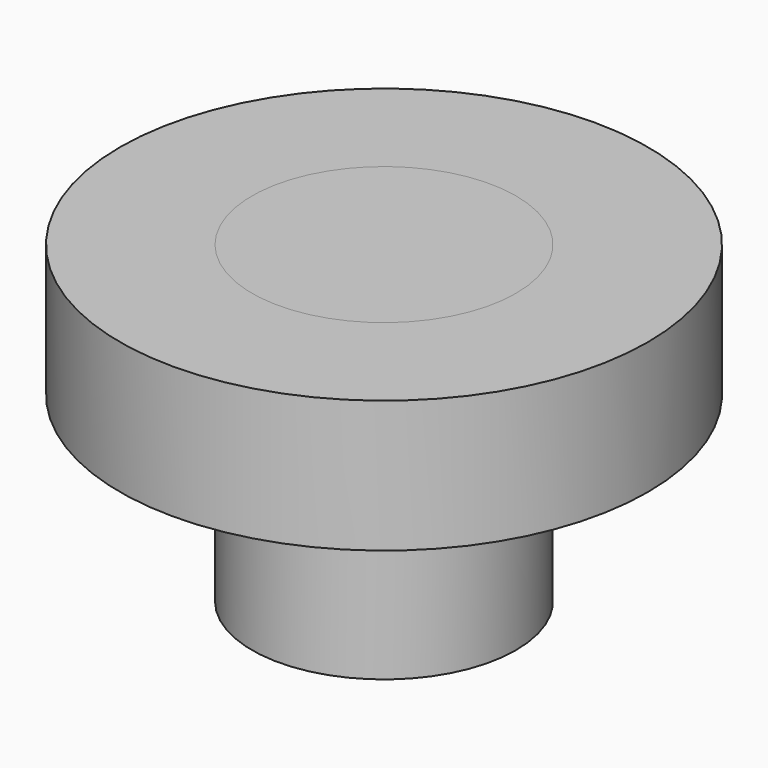
from build123d import *

# Parameters (mm, degrees)
F0_R     = 50
F1_DEPTH = 25
F2_R     = 25
F3_DEPTH = 59.5


with BuildPart() as f1:
    # F0 (on Top) → F1 (new body)
    with BuildSketch(Plane.XY):
        Circle(F0_R)
    extrude(amount=F1_DEPTH)


with BuildPart() as f3:
    # F2 (on face) → F3 (new body)
    with BuildSketch(Plane.XY.offset(25)):
        Circle(F2_R)
    extrude(amount=-F3_DEPTH)


solid = Compound([f1.part, f3.part])
